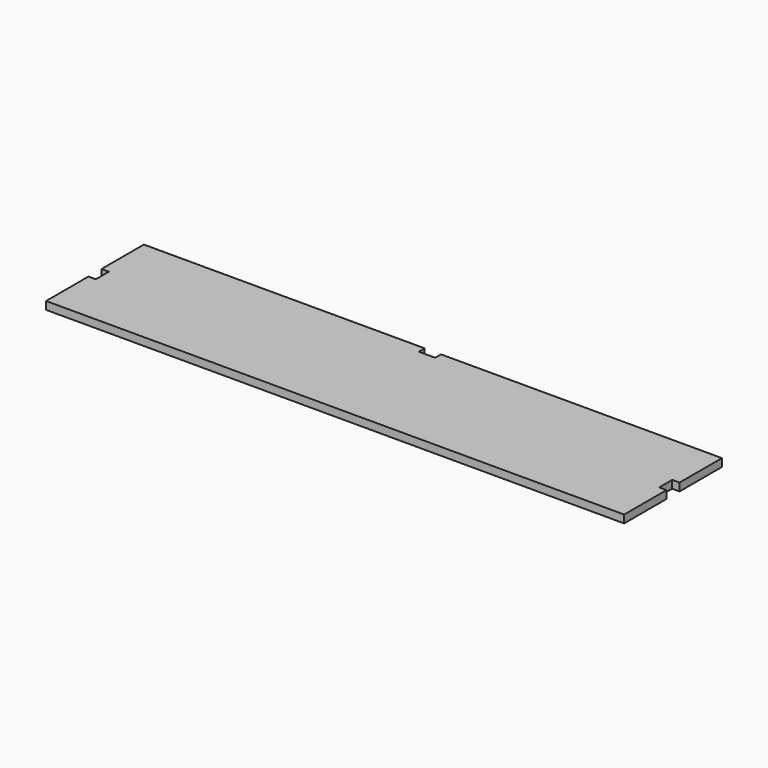
from build123d import *

# Parameters (mm, degrees)
F1_DEPTH = 4.8


with BuildPart() as f1:
    # F0 (on Top) → F1 (new body)
    with BuildSketch(Plane.XY):
        Polygon((-82.595532, 18.481104), (-87.095532, 18.481104), (-87.095532, -13.960981), (85.034968, -13.960981), (85.034968, -9.460981), (90.034968, -9.460981), (90.034968, 23.481104), (-82.595532, 23.481104), align=None)
        Polygon((85.034968, 60.923189), (-87.095532, 60.923189), (-87.095532, 28.481104), (-82.595532, 28.481104), (-82.595532, 23.481104), (90.034968, 23.481104), (90.034968, 56.423189), (85.034968, 56.423189), align=None)
        Polygon((262.665468, 23.481104), (90.034968, 23.481104), (90.034968, -9.460981), (95.034968, -9.460981), (95.034968, -13.960981), (267.165468, -13.960981), (267.165468, 18.481104), (262.665468, 18.481104), align=None)
        Polygon((267.165468, 60.923189), (95.034968, 60.923189), (95.034968, 56.423189), (90.034968, 56.423189), (90.034968, 23.481104), (262.665468, 23.481104), (262.665468, 28.481104), (267.165468, 28.481104), align=None)
        Polygon((85.034968, -9.460981), (85.034968, -13.960981), (95.034968, -13.960981), (95.034968, -9.460981), (90.034968, -9.460981), align=None)
    extrude(amount=F1_DEPTH)


solid = f1.part
